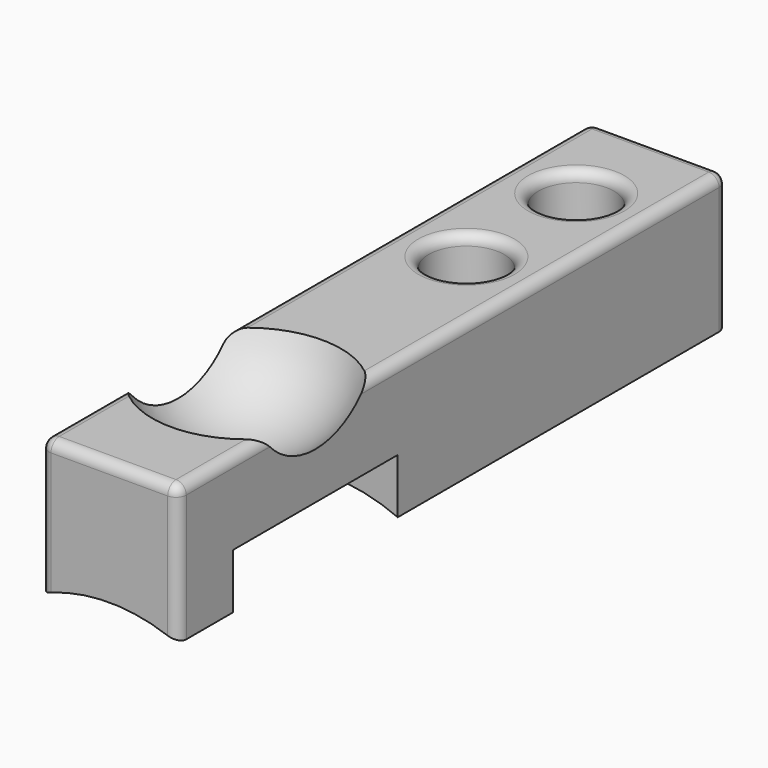
from build123d import *

# Parameters (mm, degrees)
BOX_W           = 20
BOX_H           = 100
BOX_DEPTH       = 20
SKETCH007_R     = 2.75
POCKET003_DEPTH = 20
SKETCH009_R     = 4.5
POCKET004_DEPTH = 4.15
SKETCH008_R     = 25
POCKET005_DEPTH = 100.001
SKETCH_W        = 30
SKETCH_H        = 20
POCKET_DEPTH    = 20.001
SKETCH010_R     = 2.1
POCKET006_DEPTH = 20.001
SKETCH011_R     = 5.5
POCKET007_DEPTH = 8
FILLET_R        = 1.5


with BuildPart() as part:
    # Box → Box (new body)
    with BuildSketch(Plane(origin=(-10, 0, -8), x_dir=(1, 0, 0), z_dir=(0, 0, 1))):
        with Locations((10, 50)):
            Rectangle(BOX_W, BOX_H)
    extrude(amount=BOX_DEPTH)

    # Sketch007 (on Face5 of Box) → Pocket003 (cut)
    with BuildSketch(Plane(origin=(-10, 0, -8), x_dir=(1, 0, 0), z_dir=(0, 0, -1))):
        with Locations((10, -65)):
            Circle(SKETCH007_R)
        with Locations((10, -85)):
            Circle(SKETCH007_R)
    extrude(amount=-POCKET003_DEPTH, mode=Mode.SUBTRACT)

    # Sketch009 (on Face5 of Pocket003) → Pocket004 (cut)
    with BuildSketch(Plane(origin=(-10, 0, -8), x_dir=(1, 0, 0), z_dir=(0, 0, -1))):
        with Locations((10, -85)):
            Circle(SKETCH009_R)
        with Locations((10, -65)):
            Circle(SKETCH009_R)
    extrude(amount=-POCKET004_DEPTH, mode=Mode.SUBTRACT)

    # Sketch008 (on Face4 of Pocket004) → Pocket005 (cut, through all)
    with BuildSketch(Plane(origin=(-10, 100, -8), x_dir=(-1, 0, 0), z_dir=(0, 1, 0))):
        with Locations((-10, -22.912878)):
            Circle(SKETCH008_R)
    extrude(amount=-POCKET005_DEPTH, mode=Mode.SUBTRACT)


with BuildPart() as part_1:
    # BaseFeature placement: moved
    add(part.part.moved(Location((10, 0, 8))))

    # Sketch (on Face1 of BaseFeature) → Pocket (cut, through all)
    with BuildSketch(Plane(origin=(0, 0, 0), x_dir=(0, -1, 0), z_dir=(-1, 0, 0))):
        with Locations((-25, -2)):
            Rectangle(SKETCH_W, SKETCH_H)
    extrude(amount=-POCKET_DEPTH, mode=Mode.SUBTRACT)

    # Sketch010 (on Face2 of Pocket) → Pocket006 (cut, through all)
    with BuildSketch(Plane.XY.offset(20)):
        with Locations((10, 25)):
            Circle(SKETCH010_R)
    extrude(amount=-POCKET006_DEPTH, mode=Mode.SUBTRACT)

    # Sketch011 (on Face2 of Pocket006) → Pocket007 (cut)
    with BuildSketch(Plane.XY.offset(20)):
        with Locations((10, 85)):
            Circle(SKETCH011_R)
        with Locations((10, 65)):
            Circle(SKETCH011_R)
    extrude(amount=-POCKET007_DEPTH, mode=Mode.SUBTRACT)

    # Sphere → Sphere (revolve, cut)
    with BuildSketch(Plane(origin=(10, 25, 26), x_dir=(1, 0, 0), z_dir=(0, -1, 0))):
        with BuildLine():
            ThreePointArc((0, -15), (15, 0), (0, 15))
            Line((0, 15), (0, -15))
        make_face()
    revolve(axis=Axis((10, 25, 26), (0, 0, 1)), mode=Mode.SUBTRACT)

    # Fillet
    fillet_edges = [part_1.edges().sort_by_distance(p)[0] for p in [
        (20, 67.216991, 20),
        (0, 67.216991, 20),
        (10, 100, 20),
        (0, 7.783009, 20),
        (20, 7.783009, 20),
        (10, 0, 20),
        (0, 0, 10),
        (0, 100, 10),
        (20, 100, 10),
        (20, 0, 10),
        (4.5, 65, 20),
        (4.5, 85, 20),
    ]]
    fillet(fillet_edges, radius=FILLET_R)


solid = part_1.part
